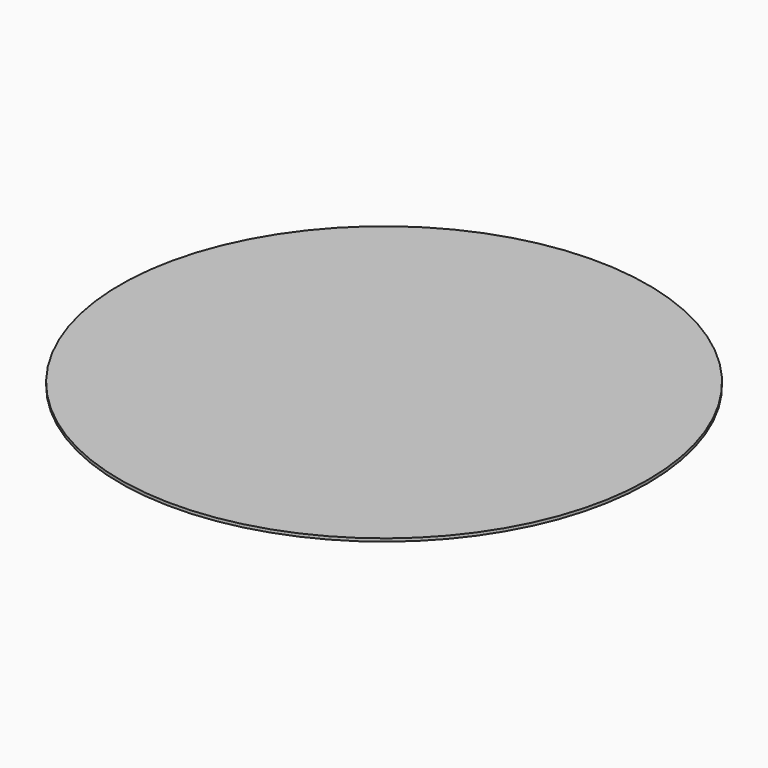
from build123d import *

# Parameters (mm, degrees)
F0_R     = 45
F0_R_2   = 2
F1_DEPTH = 0.5
F2_DEPTH = 0.2


with BuildPart() as f1:
    # F0 (on Top) → F1 (new body)
    with BuildSketch(Plane.XY):
        Circle(F0_R)
        with Locations((-40.505796, -6.346692)):
            Circle(F0_R_2, mode=Mode.SUBTRACT)
        with Locations((28.991672, -28.991084)):
            Circle(F0_R_2, mode=Mode.SUBTRACT)
        with Locations((8.126494, 32.675468)):
            Circle(F0_R_2, mode=Mode.SUBTRACT)
        with Locations((8.126494, 32.675468)):
            Circle(F0_R_2)
        with Locations((-40.505796, -6.346692)):
            Circle(F0_R_2)
        with Locations((28.991672, -28.991084)):
            Circle(F0_R_2)
    extrude(amount=F1_DEPTH)

    # F0 (on Top) → F2 (cut)
    with BuildSketch(Plane.XY):
        with Locations((-40.505796, -6.346692)):
            Circle(F0_R_2)
        with Locations((8.126494, 32.675468)):
            Circle(F0_R_2)
        with Locations((28.991672, -28.991084)):
            Circle(F0_R_2)
    extrude(amount=F2_DEPTH, mode=Mode.SUBTRACT)


solid = f1.part
